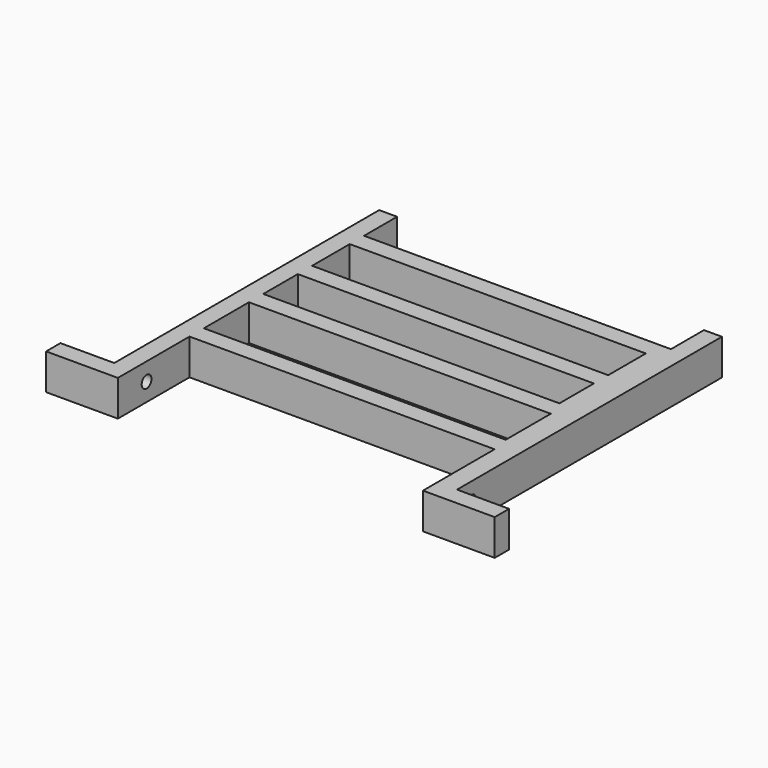
from build123d import *

# Parameters (mm, degrees)
F0_W     = 84.1
F0_H     = 15.7
F0_W_2   = 82.5
F0_H_2   = 12
F0_H_3   = 13.1
F1_DEPTH = 10
F2_R     = 1.7
F3_DEPTH = 110.501


with BuildPart() as f1:
    # F0 (on Top) → F1 (new body)
    with BuildSketch(Plane.XY):
        Polygon((85.5, 5), (0, 5), (0, 16.5), (-5, 16.5), (-5, -75.749691), (-20, -75.749691), (-20, -80.749691), (-5, -80.749691), (0, -80.749691), (0, -75.749691), (0, -55.8), (85, -55.8), (85, -75.749691), (85, -80.749691), (90.5, -80.749691), (105, -80.749691), (105, -75.749691), (90.5, -75.749691), (90.5, 16.5), (85.5, 16.5), align=None)
        with Locations((42.05, -42.95)):
            Rectangle(F0_W, F0_H, mode=Mode.SUBTRACT)
        with Locations((41.25, -24.1)):
            Rectangle(F0_W_2, F0_H_2, mode=Mode.SUBTRACT)
        with Locations((41.25, -6.55)):
            Rectangle(F0_W_2, F0_H_3, mode=Mode.SUBTRACT)
    extrude(amount=F1_DEPTH)

    # F2 (on face) → F3 (cut, through all)
    with BuildSketch(Plane.YZ.offset(90.5)):
        with Locations((-70.749691, 5)):
            Circle(F2_R)
    extrude(amount=-F3_DEPTH, mode=Mode.SUBTRACT)


solid = f1.part
